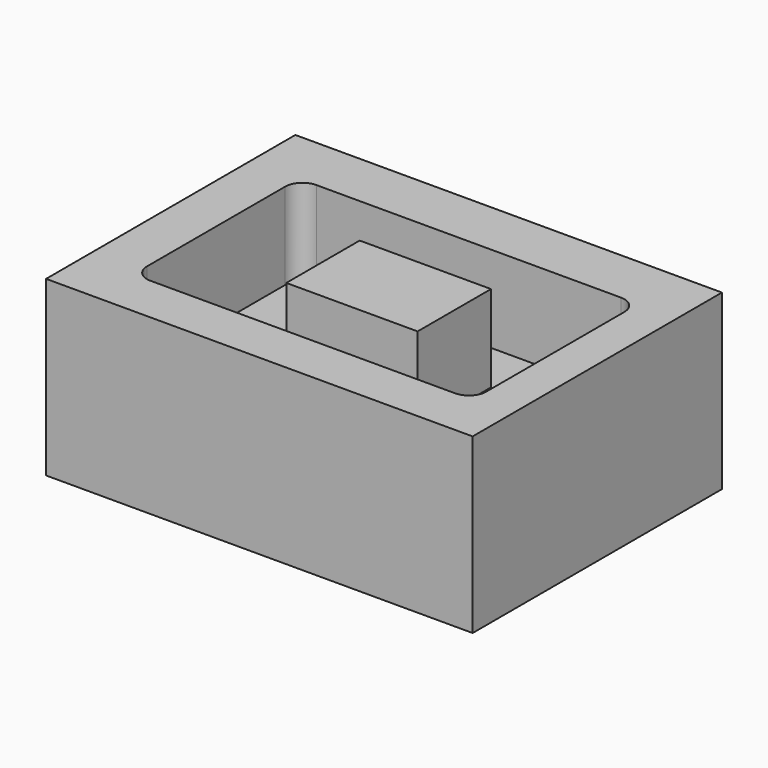
from build123d import *

# Parameters (mm, degrees)
F0_W     = 123.205647
F0_H     = 90
F1_DEPTH = 50
F2_W     = 97.983871
F2_H     = 59.879035
F3_DEPTH = 25
F4_W     = 37.923388
F4_H     = 26.491936
F5_DEPTH = 25
F6_R     = 5


with BuildPart() as f1:
    # F0 (on Top) → F1 (new body)
    with BuildSketch(Plane.XY):
        with Locations((0.997982, 5.443549)):
            Rectangle(F0_W, F0_H)
    extrude(amount=F1_DEPTH)

    # F2 (on face) → F3 (cut)
    with BuildSketch(Plane.XY.offset(50)):
        with Locations((2.358871, 4.354839)):
            Rectangle(F2_W, F2_H)
    extrude(amount=-F3_DEPTH, mode=Mode.SUBTRACT)

    # F4 (on face) → F5 (join)
    with BuildSketch(Plane.XY.offset(25)):
        with Locations((1.905242, 5.987903)):
            Rectangle(F4_W, F4_H)
    extrude(amount=F5_DEPTH)

    # F6
    f6_edges = [f1.edges().sort_by_distance(p)[0] for p in [
        (-46.633065, 34.294356, 37.5),
        (-46.633065, -25.584679, 37.5),
        (51.350806, -25.584679, 37.5),
        (51.350806, 34.294356, 37.5),
    ]]
    fillet(f6_edges, radius=F6_R)


solid = f1.part
